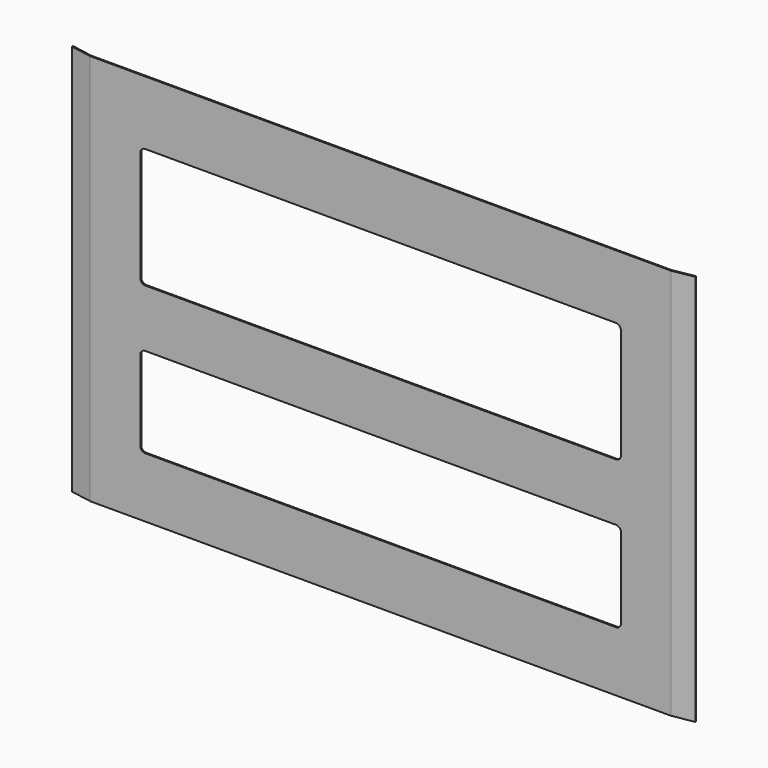
from build123d import *

# Parameters (mm, degrees)
F0_W     = 790.575
F0_H     = 496.8875
F1_DEPTH = 76.2
F2_SIZE2 = 4.7625
F2_SIZE  = 26.9875
F4_START = -248.44475
F4_DEPTH = 496.8895


with BuildPart() as f1:
    # F0 (on Front) → F1 (new body)
    with BuildSketch(Plane.XZ):
        Rectangle(F0_W, F0_H)
        with BuildLine():
            Line((-298.45, -57.94375), (298.45, -57.94375))
            ThreePointArc((298.45, -57.94375), (302.9401280605, -59.8036219395), (304.8, -64.29375))
            Line((304.8, -64.29375), (304.8, -165.89375))
            ThreePointArc((304.8, -165.89375), (302.9401280605, -170.3838780605), (298.45, -172.24375))
            Line((298.45, -172.24375), (-298.45, -172.24375))
            ThreePointArc((-298.45, -172.24375), (-302.9401280605, -170.3838780605), (-304.8, -165.89375))
            Line((-304.8, -165.89375), (-304.8, -64.29375))
            ThreePointArc((-304.8, -64.29375), (-302.9401280605, -59.8036219395), (-298.45, -57.94375))
        make_face(mode=Mode.SUBTRACT)
        with BuildLine():
            Line((-298.45, 167.48125), (298.45, 167.48125))
            ThreePointArc((298.45, 167.48125), (302.9401280605, 165.6213780605), (304.8, 161.13125))
            Line((304.8, 161.13125), (304.8, 21.43125))
            ThreePointArc((304.8, 21.43125), (302.9401280605, 16.9411219395), (298.45, 15.08125))
            Line((298.45, 15.08125), (-298.45, 15.08125))
            ThreePointArc((-298.45, 15.08125), (-302.9401280605, 16.9411219395), (-304.8, 21.43125))
            Line((-304.8, 21.43125), (-304.8, 161.13125))
            ThreePointArc((-304.8, 161.13125), (-302.9401280605, 165.6213780605), (-298.45, 167.48125))
        make_face(mode=Mode.SUBTRACT)
    extrude(amount=-F1_DEPTH)

    # F2
    f2_edges = [f1.edges().sort_by_distance(p)[0] for p in [
        (-395.2875, 0, 0),
        (395.2875, 0, 0),
    ]]
    f2_side = f1.faces().sort_by_distance((0, 0, -2.004685))[0]
    chamfer(f2_edges, length=F2_SIZE, length2=F2_SIZE2, reference=f2_side)

    # F3 (on Top) → F4 (intersect)
    with BuildSketch(Plane.XY.offset(F4_START)):
        Polygon((-395.2875, 4.7625), (-368.3, 0), (368.3, 0), (395.2875, 4.7625), (395.0116157824, 6.3258438996), (368.1610003512, 1.5875), (-368.1610003512, 1.5875), (-395.0116157824, 6.3258438996), align=None)
    extrude(amount=F4_DEPTH, mode=Mode.INTERSECT)


solid = f1.part
